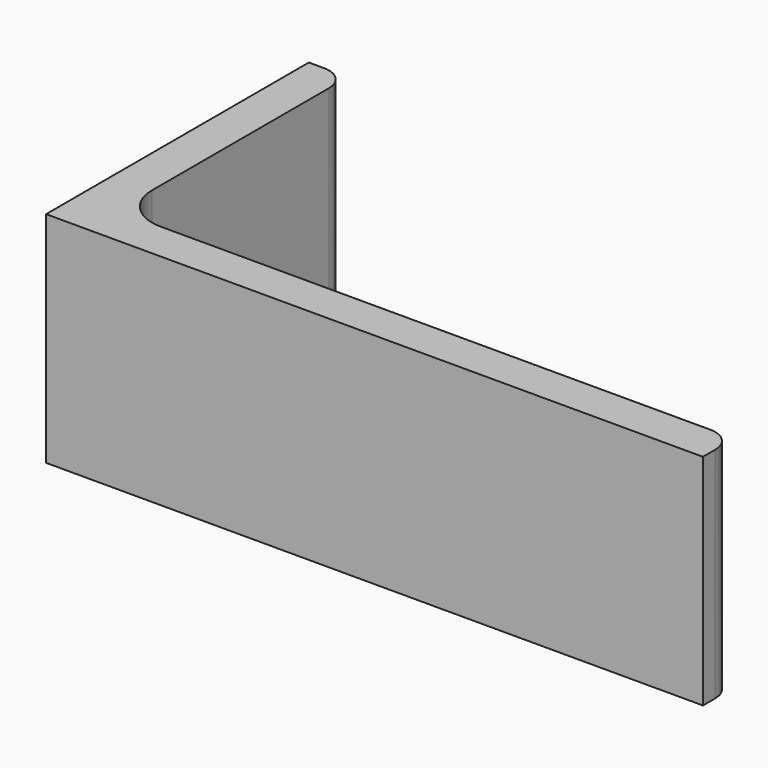
from build123d import *

# Parameters (mm, degrees)
EXTRUDE_DEPTH = 50


with BuildPart() as part:
    # Sketch → Extrude (new body)
    with BuildSketch(Plane.XY):
        with BuildLine():
            Line((0, 0), (150, 0))
            Line((150, 0), (150, 3.5))
            ThreePointArc((150, 3.5), (148.389087, 7.389087), (144.5, 9))
            Line((144.5, 9), (19, 9))
            ThreePointArc((9, 19), (11.928932, 11.928932), (19, 9))
            Line((9, 69.5), (9, 19))
            ThreePointArc((9, 69.5), (7.389087, 73.389087), (3.5, 75))
            Line((0, 75), (3.5, 75))
            Line((0, 0), (0, 75))
        make_face()
    extrude(amount=EXTRUDE_DEPTH)


solid = part.part
